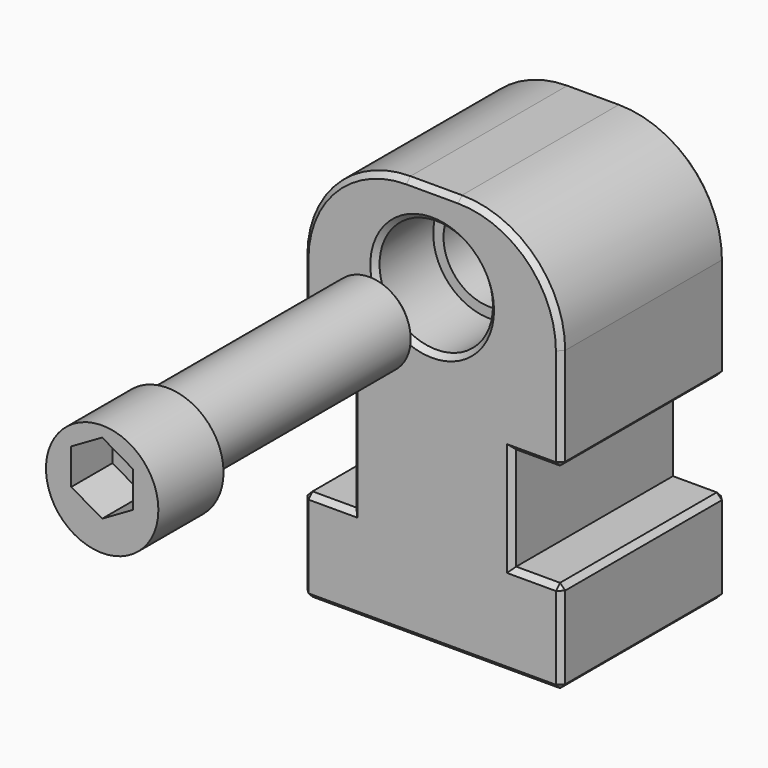
from build123d import *

# Parameters (mm, degrees)
F1_DEPTH       = 20
F2_R           = 10
F4_D           = 9
F4_CBORE_D     = 11
F4_CBORE_DEPTH = 7
F5_SIZE        = 0.5
F7_R           = 6.45
F8_DEPTH       = 7.9
F10_DEPTH      = 5
F11_R          = 4
F12_DEPTH      = 25
F13_SIZE       = 0.5
F14_R          = 6.45
F14_R_2        = 5.45
F15_DEPTH      = 7.9


with BuildPart() as f1:
    # F0 (on Front) → F1 (new body)
    with BuildSketch(Plane.XZ):
        Polygon((-12.5, 0), (0, 0), (12.5, 0), (12.5, 9), (7.75, 9), (7.75, 19), (12.5, 19), (12.5, 39), (0, 39), (-12.5, 39), (-12.5, 19), (-7.75, 19), (-7.75, 9), (-12.5, 9), align=None)
    extrude(amount=F1_DEPTH)

    # F2
    f2_edges = [f1.edges().sort_by_distance(p)[0] for p in [
        (-12.5, -10, 39),
        (12.5, -10, 39),
    ]]
    fillet(f2_edges, radius=F2_R)

    # F4 (through all)
    with Locations(Plane.XZ.offset(20)):
        with Locations((0, 30.5)):
            CounterBoreHole(F4_D / 2, F4_CBORE_D / 2, F4_CBORE_DEPTH)

    # F5
    f5_edges = [f1.edges().sort_by_distance(p)[0] for p in [
        (0, -20, 39),
        (-2.5, -10, 39),
        (2.5, -10, 39),
        (0, 0, 39),
        (12.5, 0, 24),
        (12.5, -10, 29),
        (12.5, -10, 19),
        (12.5, -20, 24),
        (12.5, -10, 0),
        (12.5, -10, 9),
        (12.5, 0, 4.5),
        (12.5, -20, 4.5),
        (-12.5, -10, 0),
        (0, -20, 0),
        (0, 0, 0),
        (9.571068, -20, 36.071068),
        (10.125, -20, 19),
        (7.75, -20, 14),
        (-9.571068, -20, 36.071068),
        (10.125, -20, 9),
        (-12.5, -20, 24),
        (-10.125, -20, 19),
        (-7.75, -20, 14),
        (-12.5, -20, 4.5),
        (-10.125, -20, 9),
        (-5.5, -20, 30.5),
        (-12.5, -10, 9),
        (-12.5, 0, 4.5),
        (-12.5, 0, 24),
        (-12.5, -10, 29),
        (-12.5, -10, 19),
        (9.571068, 0, 36.071068),
        (10.125, 0, 19),
        (7.75, 0, 14),
        (-9.571068, 0, 36.071068),
        (10.125, 0, 9),
        (-10.125, 0, 19),
        (-7.75, 0, 14),
        (-10.125, 0, 9),
        (-4.5, 0, 30.5),
    ]]
    chamfer(f5_edges, length=F5_SIZE)


with BuildPart() as f8:
    # F7 (on offset) → F8 (new body)
    with BuildSketch(Plane.XZ.offset(60)):
        with Locations((0, 30.5)):
            Circle(F7_R)
    extrude(amount=-F8_DEPTH)

    # F9 (on face) → F10 (cut)
    with BuildSketch(Plane.XZ.offset(60)):
        Polygon((3, 32.2320508076), (0, 33.9641016151), (-3, 32.2320508076), (-3, 28.7679491924), (0, 27.0358983849), (3, 28.7679491924), align=None)
    extrude(amount=-F10_DEPTH, mode=Mode.SUBTRACT)

    # F11 (on face) → F12 (join)
    with BuildSketch(Plane(origin=(0, -52.1, 0), x_dir=(-1, 0, 0), z_dir=(0, 1, 0))):
        with Locations((0, 30.5)):
            Circle(F11_R)
    extrude(amount=F12_DEPTH)

    # F13
    f13_edges = [f8.edges().sort_by_distance(p)[0] for p in [
        (4, -27.1, 30.5),
    ]]
    chamfer(f13_edges, length=F13_SIZE)

    # F14 (on face) → F15 (cut, through all)
    with BuildSketch(Plane.XZ.offset(60)):
        with Locations((0, 30.5)):
            Circle(F14_R)
        with Locations((0, 29.55)):
            Circle(F14_R_2, mode=Mode.SUBTRACT)
    extrude(amount=-F15_DEPTH, mode=Mode.SUBTRACT)


solid = Compound([f1.part, f8.part])
